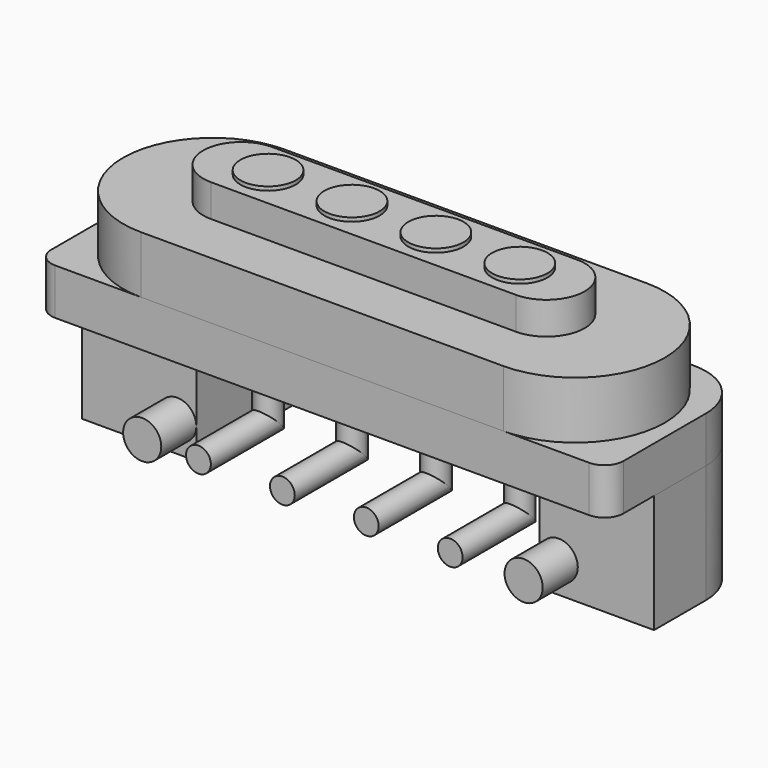
from build123d import *

# Parameters (mm, degrees)
EXTRUDE_DEPTH    = 1.21
EXTRUDE001_DEPTH = 1.5
EXTRUDE002_DEPTH = 0.85
SKETCH002_R      = 0.725
EXTRUDE003_DEPTH = 0.1
EXTRUDE004_DEPTH = 3.1
SKETCH005_R      = 0.5
EXTRUDE005_DEPTH = 1.15
SKETCH009_R      = 0.325
SKETCH010_R      = 0.325
SKETCH012_R      = 0.325
SKETCH011_R      = 0.325


with BuildPart() as f_2_ext:
    # Sketch001 → Extrude (new body)
    with BuildSketch(Plane.XY):
        with BuildLine():
            Line((7, -2.35), (-7, -2.35))
            ThreePointArc((-7.5, -1.85), (-7.353553, -2.203553), (-7, -2.35))
            Line((-7.5, -1.85), (-7.5, 0.85))
            ThreePointArc((-6, 2.35), (-7.06066, 1.91066), (-7.5, 0.85))
            Line((-6, 2.35), (6, 2.35))
            ThreePointArc((7.5, 0.85), (7.06066, 1.91066), (6, 2.35))
            Line((7.5, 0.85), (7.5, -1.85))
            ThreePointArc((7, -2.35), (7.353553, -2.203553), (7.5, -1.85))
        make_face()
    extrude(amount=EXTRUDE_DEPTH)


with BuildPart() as f_1_ext:
    # Sketch (on Face10 of Extrude) → Extrude001 (new body)
    with BuildSketch(Plane.XY.offset(1.21)):
        with BuildLine():
            ThreePointArc((-4.75, 2.35), (-7.1, 0), (-4.75, -2.35))
            Line((-4.75, -2.35), (4.75, -2.35))
            ThreePointArc((4.75, -2.35), (7.1, 0), (4.75, 2.35))
            Line((-4.75, 2.35), (4.75, 2.35))
        make_face()
    extrude(amount=EXTRUDE001_DEPTH)


with BuildPart() as f_0_ext:
    # Sketch003 (on Face6 of Extrude001) → Extrude002 (new body)
    with BuildSketch(Plane.XY.offset(2.71)):
        with BuildLine():
            ThreePointArc((-4, 1), (-5, 0), (-4, -1))
            Line((-4, -1), (4, -1))
            ThreePointArc((4, -1), (5, 0), (4, 1))
            Line((-4, 1), (4, 1))
        make_face()
    extrude(amount=EXTRUDE002_DEPTH)


with BuildPart() as copper_ext:
    # Sketch002 (on Face6 of Extrude002) → Extrude003 (new body)
    with BuildSketch(Plane.XY.offset(3.56)):
        with Locations((-3.3, 0)):
            Circle(SKETCH002_R)
        with Locations((-1.1, 0)):
            Circle(SKETCH002_R)
        with Locations((1.1, 0)):
            Circle(SKETCH002_R)
        with Locations((3.3, 0)):
            Circle(SKETCH002_R)
    extrude(amount=EXTRUDE003_DEPTH)


with BuildPart() as f_3_ext:
    # Sketch004 → Extrude004 (new body)
    with BuildSketch(Plane.XY):
        with BuildLine():
            Line((-4.5, 2.35), (-4.5, -0.85))
            Line((-4.5, -0.85), (-7.5, -0.85))
            Line((-7.5, -0.85), (-7.5, 0.85))
            ThreePointArc((-6, 2.35), (-7.06066, 1.91066), (-7.5, 0.85))
            Line((-6, 2.35), (-4.5, 2.35))
        make_face()
        with BuildLine():
            Line((4.5, 2.35), (4.5, -0.85))
            Line((4.5, -0.85), (7.5, -0.85))
            Line((7.5, -0.85), (7.5, 0.85))
            ThreePointArc((7.5, 0.85), (7.06066, 1.91066), (6, 2.35))
            Line((4.5, 2.35), (6, 2.35))
        make_face()
    extrude(amount=-EXTRUDE004_DEPTH)


with BuildPart() as boss_ext:
    # Sketch005 (on Face3 of Extrude004) → Extrude005 (new body)
    with BuildSketch(Plane.XZ.offset(0.85)):
        with Locations((-5, -2.3)):
            Circle(SKETCH005_R)
        with Locations((5, -2.3)):
            Circle(SKETCH005_R)
    extrude(amount=EXTRUDE005_DEPTH)


with BuildPart() as pin1_sweep:
    # Sweep: sweep along a path in Sketch008
    with BuildLine(Plane.YZ) as sweep_path:
        Line((0, 0), (0, -2.095))
        Line((0, -2.095), (-2.281354, -2.095))
    # Sketch009 (on Face9 of Extrude) → Sweep (sweep)
    with BuildSketch(Plane(origin=(0, 0, 0), x_dir=(1, 0, 0), z_dir=(0, 0, -1))):
        with Locations((3.3, 0)):
            Circle(SKETCH009_R)
    sweep(path=sweep_path.line, transition=Transition.RIGHT)


with BuildPart() as pin2_sweep:
    # Sweep001: sweep along a path in Sketch008
    with BuildLine(Plane.YZ) as sweep001_path:
        Line((0, 0), (0, -2.095))
        Line((0, -2.095), (-2.281354, -2.095))
    # Sketch010 (on Face9 of Extrude) → Sweep001 (sweep)
    with BuildSketch(Plane(origin=(0, 0, 0), x_dir=(1, 0, 0), z_dir=(0, 0, -1))):
        with Locations((1.1, 0)):
            Circle(SKETCH010_R)
    sweep(path=sweep001_path.line, transition=Transition.RIGHT)


with BuildPart() as pin4_sweep:
    # Sweep002: sweep along a path in Sketch008
    with BuildLine(Plane.YZ) as sweep002_path:
        Line((0, 0), (0, -2.095))
        Line((0, -2.095), (-2.281354, -2.095))
    # Sketch012 (on Face9 of Extrude) → Sweep002 (sweep)
    with BuildSketch(Plane(origin=(0, 0, 0), x_dir=(1, 0, 0), z_dir=(0, 0, -1))):
        with Locations((-3.3, 0)):
            Circle(SKETCH012_R)
    sweep(path=sweep002_path.line, transition=Transition.RIGHT)


with BuildPart() as pin3_sweep:
    # Sweep003: sweep along a path in Sketch008
    with BuildLine(Plane.YZ) as sweep003_path:
        Line((0, 0), (0, -2.095))
        Line((0, -2.095), (-2.281354, -2.095))
    # Sketch011 (on Face9 of Extrude) → Sweep003 (sweep)
    with BuildSketch(Plane(origin=(0, 0, 0), x_dir=(1, 0, 0), z_dir=(0, 0, -1))):
        with Locations((-1.1, 0)):
            Circle(SKETCH011_R)
    sweep(path=sweep003_path.line, transition=Transition.RIGHT)


solid = Compound([f_2_ext.part, f_1_ext.part, f_0_ext.part, copper_ext.part, f_3_ext.part, boss_ext.part, pin1_sweep.part, pin2_sweep.part, pin4_sweep.part, pin3_sweep.part])
